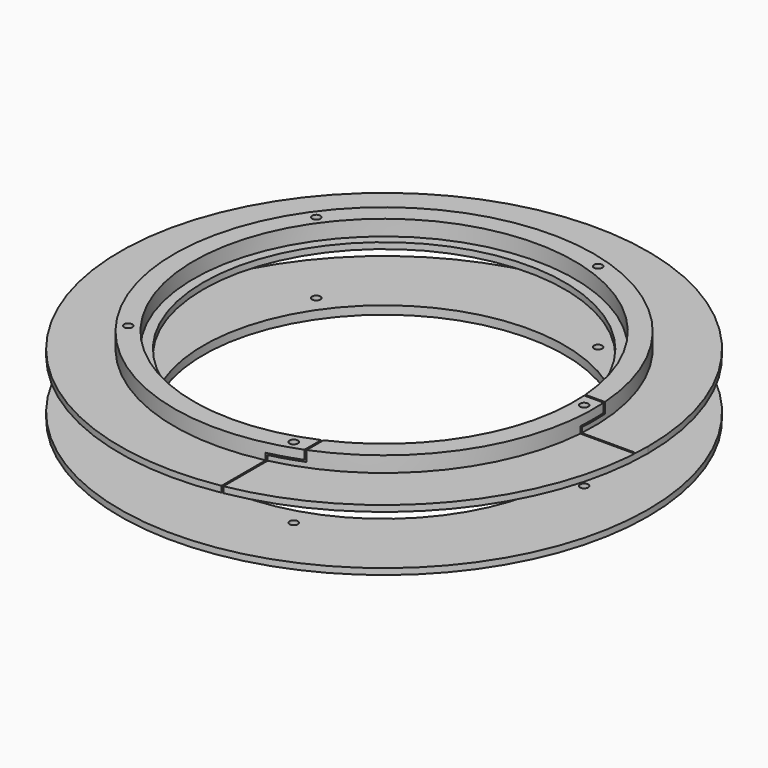
from build123d import *

# Parameters (mm, degrees)
SKETCH_R              = 95
PAD_DEPTH             = 2.2
SKETCH013_R           = 80
PAD003_DEPTH          = 0.8
SKETCH001_R           = 65
POCKET_DEPTH          = 6.6
SKETCH003_R           = 1.5
POCKET001_DEPTH       = 5
POLARPATTERN_COUNT    = 5
SKETCH004_R           = 95
PAD001_DEPTH          = 2.2
SKETCH005_R           = 65
POCKET002_DEPTH       = 6.6
SKETCH009_R           = 75.5
SKETCH009_R_2         = 68.5
PAD002_DEPTH          = 5.6
SKETCH010_R           = 1.5
POCKET003_DEPTH       = 20
POLARPATTERN001_COUNT = 5
POCKET004_DEPTH       = 94.4
POCKET005_DEPTH       = 95


with BuildPart() as pedalfacingpart:
    # Sketch → Pad (new body)
    with BuildSketch(Plane.XY):
        Circle(SKETCH_R)
    extrude(amount=PAD_DEPTH)

    # Sketch013 (on Face2 of Pad) → Pad003 (join)
    with BuildSketch(Plane(origin=(0, 0, 0), x_dir=(1, 0, 0), z_dir=(0, 0, -1))):
        Circle(SKETCH013_R)
    extrude(amount=PAD003_DEPTH)

    # Sketch001 (on Face3 of Pad) → Pocket (cut)
    with BuildSketch(Plane.XY.offset(2.2)):
        Circle(SKETCH001_R)
    extrude(amount=-POCKET_DEPTH, mode=Mode.SUBTRACT)

    # Sketch003 (on Face3 of Pocket) → Pocket001 (cut)
    with BuildSketch(Plane.XY.offset(2.2)):
        with Locations((72, 0)):
            Circle(SKETCH003_R)
    pocket001 = extrude(amount=-POCKET001_DEPTH, mode=Mode.SUBTRACT)

    # PolarPattern: Pocket001 ×5 about axis
    polarpattern_axis = Axis((0, 0, 2.2), (0, 0, 1))
    for i in range(1, POLARPATTERN_COUNT):
        add(pocket001.rotate(polarpattern_axis, i * 360 / POLARPATTERN_COUNT), mode=Mode.SUBTRACT)


with BuildPart() as framefacingpart:
    # Sketch004 → Pad001 (new body)
    with BuildSketch(Plane.XY):
        Circle(SKETCH004_R)
    extrude(amount=PAD001_DEPTH)

    # Sketch005 (on Face3 of Pad001) → Pocket002 (cut)
    with BuildSketch(Plane.XY.offset(2.2)):
        Circle(SKETCH005_R)
    extrude(amount=-POCKET002_DEPTH, mode=Mode.SUBTRACT)

    # Sketch009 (on Face3 of Pocket002) → Pad002 (join)
    with BuildSketch(Plane.XY.offset(2.2)):
        Circle(SKETCH009_R)
        Circle(SKETCH009_R_2, mode=Mode.SUBTRACT)
    extrude(amount=PAD002_DEPTH)

    # Sketch010 (on Face2 of Pad002) → Pocket003 (cut)
    with BuildSketch(Plane(origin=(0, 0, 0), x_dir=(1, 0, 0), z_dir=(0, 0, -1))):
        with Locations((72, 0)):
            Circle(SKETCH010_R)
    pocket003 = extrude(amount=-POCKET003_DEPTH, mode=Mode.SUBTRACT)

    # PolarPattern001: Pocket003 ×5 about axis
    polarpattern001_axis = Axis((0, 0, 0), (0, 0, -1))
    for i in range(1, POLARPATTERN001_COUNT):
        add(pocket003.rotate(polarpattern001_axis, i * 360 / POLARPATTERN001_COUNT), mode=Mode.SUBTRACT)

    # Sketch011 → Pocket004 (cut)
    with BuildSketch(Plane.YZ):
        Polygon((5.2, 7.8), (5.2, 4), (0, 4), (-5.2, 4), (-5.2, 0), (-5.8, 0), (-5.8, 4.6), (4.6, 4.6), (4.6, 7.8), align=None)
    extrude(amount=POCKET004_DEPTH, mode=Mode.SUBTRACT)

    # Sketch012 → Pocket005 (cut)
    with BuildSketch(Plane.XZ):
        Polygon((28.149224, 7.8), (28.149224, 4), (16.949224, 4), (16.949224, 0), (16.349224, 0), (16.349224, 4.6), (27.549224, 4.6), (27.549224, 7.8), align=None)
    extrude(amount=POCKET005_DEPTH, mode=Mode.SUBTRACT)


with BuildPart() as framefacingpart_1:
    # Body001 placement: moved
    add(framefacingpart.part.moved(Location((0, 0, 20))))


solid = Compound([pedalfacingpart.part, framefacingpart_1.part])
